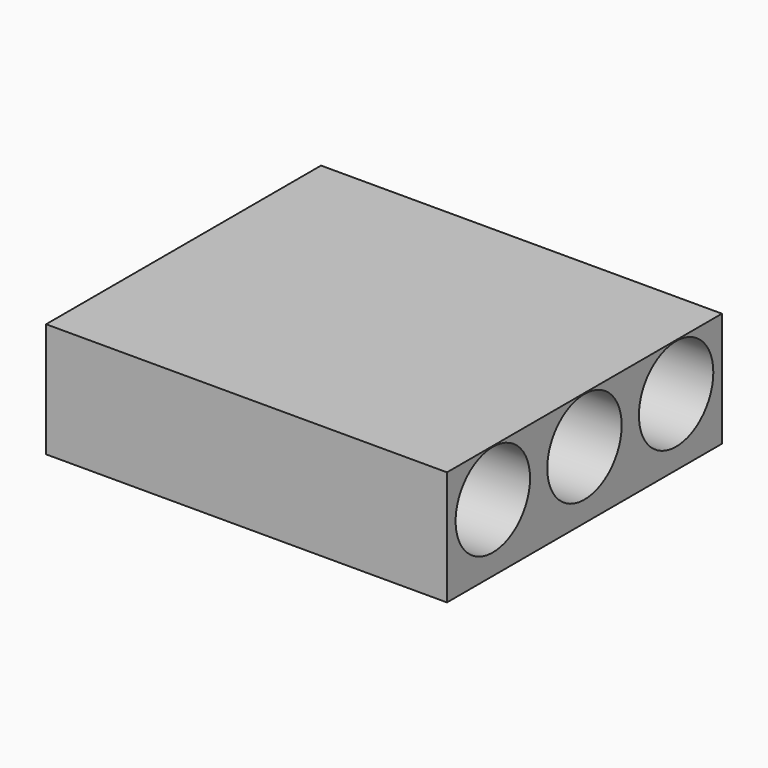
from build123d import *

# Parameters (mm, degrees)
F0_W     = 177.8
F0_H     = 152.4
F1_DEPTH = 50.8
F2_R     = 20.627653
F3_DEPTH = 161.036


with BuildPart() as f1:
    # F0 (on Top) → F1 (new body)
    with BuildSketch(Plane.XY):
        with Locations((13.166458, 42.614249)):
            Rectangle(F0_W, F0_H)
    extrude(amount=F1_DEPTH)

    # F2 (on face) → F3 (cut)
    with BuildSketch(Plane.YZ.offset(102.066458)):
        with Locations((-8.185751, 29.801123)):
            Circle(F2_R)
        with Locations((42.614249, 29.801123)):
            Circle(F2_R)
        with Locations((93.414249, 29.801123)):
            Circle(F2_R)
    extrude(amount=-F3_DEPTH, mode=Mode.SUBTRACT)


solid = f1.part
